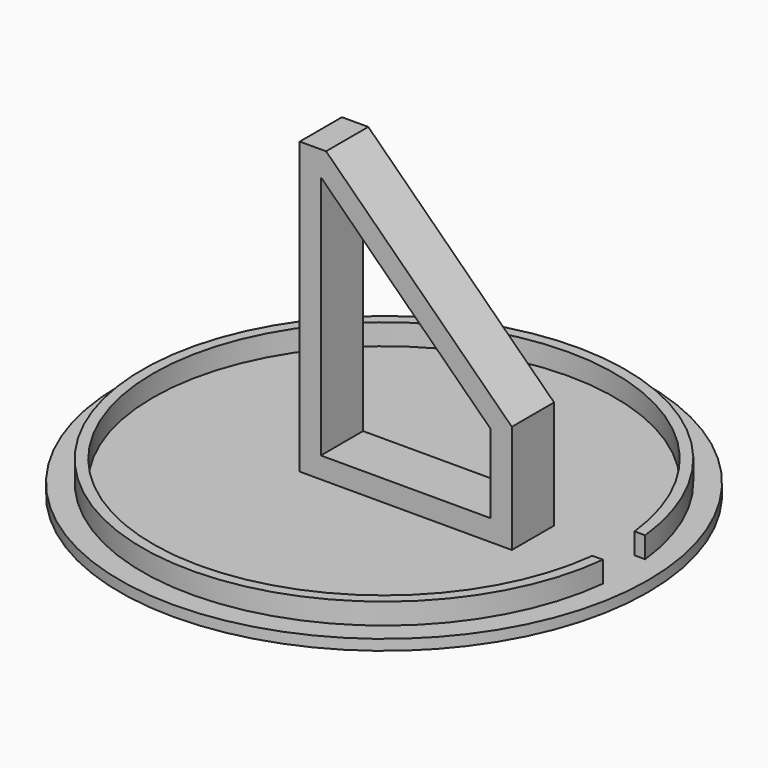
from build123d import *

# Parameters (mm, degrees)
SKETCH026_R     = 50
PAD008_DEPTH    = 2
SKETCH027_R     = 45.75
SKETCH027_R_2   = 43.75
PAD009_DEPTH    = 4
POCKET012_DEPTH = 4
PAD010_DEPTH    = 5


with BuildPart() as part:
    # Sketch026 → Pad008 (new body)
    with BuildSketch(Plane.XY.offset(-52)):
        Circle(SKETCH026_R)
    extrude(amount=PAD008_DEPTH)

    # Sketch027 (on Face3 of Pad008) → Pad009 (join)
    with BuildSketch(Plane.XY.offset(-50)):
        Circle(SKETCH027_R)
        Circle(SKETCH027_R_2, mode=Mode.SUBTRACT)
    extrude(amount=PAD009_DEPTH)

    # Sketch029 (on Face5 of Pad009) → Pocket012 (cut)
    with BuildSketch(Plane.XY.offset(-46)):
        Polygon((46.84259, 0), (46.84259, 5), (41.84259, 5), (41.84259, 0), (41.84259, -5), (46.84259, -5), align=None)
    extrude(amount=-POCKET012_DEPTH, mode=Mode.SUBTRACT)

    # Sketch030 → Pad010 (join, symmetric)
    with BuildSketch(Plane.XZ):
        Polygon((28.213385, -50), (28.213385, -29.455622), (-6.976082, 5.043167), (-11.961835, 5.043167), (-11.961835, -50), align=None)
        Polygon((-7.961835, 0.407958), (24.213385, -31.135746), (24.213385, -46), (-7.961835, -46), align=None, mode=Mode.SUBTRACT)
    extrude(amount=PAD010_DEPTH, both=True)


solid = part.part
